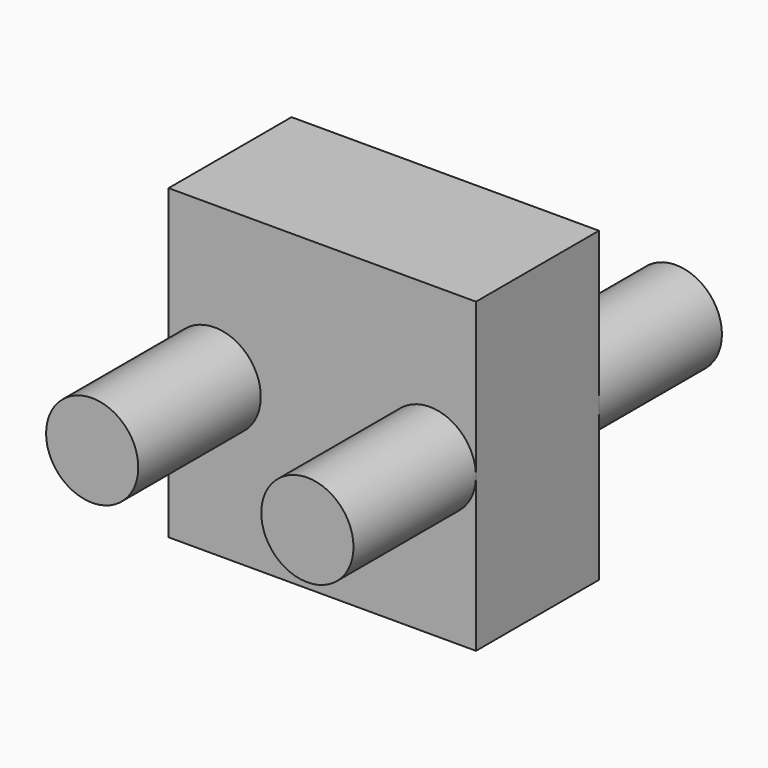
from build123d import *

# Parameters (mm, degrees)
F0_R     = 7.62
F1_DEPTH = 25.4
F2_DEPTH = 25.4
F3_DEPTH = 76.1033371091


with BuildPart() as f1:
    # F0 (on Front) → F1 (new body)
    with BuildSketch(Plane.XZ):
        with Locations((17.78, 0)):
            Circle(F0_R)
    extrude(amount=-F1_DEPTH)


with BuildPart() as f1b:
    # F0 (on Front) → F1, piece 2 (new body)
    with BuildSketch(Plane.XZ):
        with BuildLine():
            ThreePointArc((-10.16, 0), (-17.78, 7.62), (-25.4, 0))
            ThreePointArc((-25.4, 0), (-17.78, -7.62), (-10.16, 0))
        make_face()
    extrude(amount=-F1_DEPTH)


with BuildPart() as f2:
    # F0 (on Front) → F2 (new body)
    with BuildSketch(Plane.XZ):
        Polygon((25.4, 25.4), (0, 25.4), (-25.4, 25.4), (-25.4, 0), (-25.4, -25.4), (0, -25.4), (25.4, -25.4), (25.4, 0), align=None)
        with BuildLine():
            ThreePointArc((-10.16, 0), (-17.78, -7.62), (-25.4, 0))
            ThreePointArc((-25.4, 0), (-17.78, 7.62), (-10.16, 0))
        make_face(mode=Mode.SUBTRACT)
        with Locations((17.78, 0)):
            Circle(F0_R, mode=Mode.SUBTRACT)
        with BuildLine():
            ThreePointArc((-10.16, 0), (-17.78, 7.62), (-25.4, 0))
            ThreePointArc((-25.4, 0), (-17.78, -7.62), (-10.16, 0))
        make_face()
        with Locations((17.78, 0)):
            Circle(F0_R)
    extrude(amount=F2_DEPTH)


with BuildPart() as f3:
    # F3 (new): a face of the model
    f3_faces = [f1.part.faces().sort_by_distance(p)[0] for p in [
        (17.78, 25.4, 0),
    ]]
    extrude(f3_faces, amount=-F3_DEPTH)


with BuildPart() as f3b:
    # F3#2 (new): a face of the model
    f3_2_faces = [f1b.part.faces().sort_by_distance(p)[0] for p in [
        (-17.78, 25.4, 0),
    ]]
    extrude(f3_2_faces, amount=-F3_DEPTH)


solid = Compound([f1.part, f1b.part, f2.part, f3.part, f3b.part])
